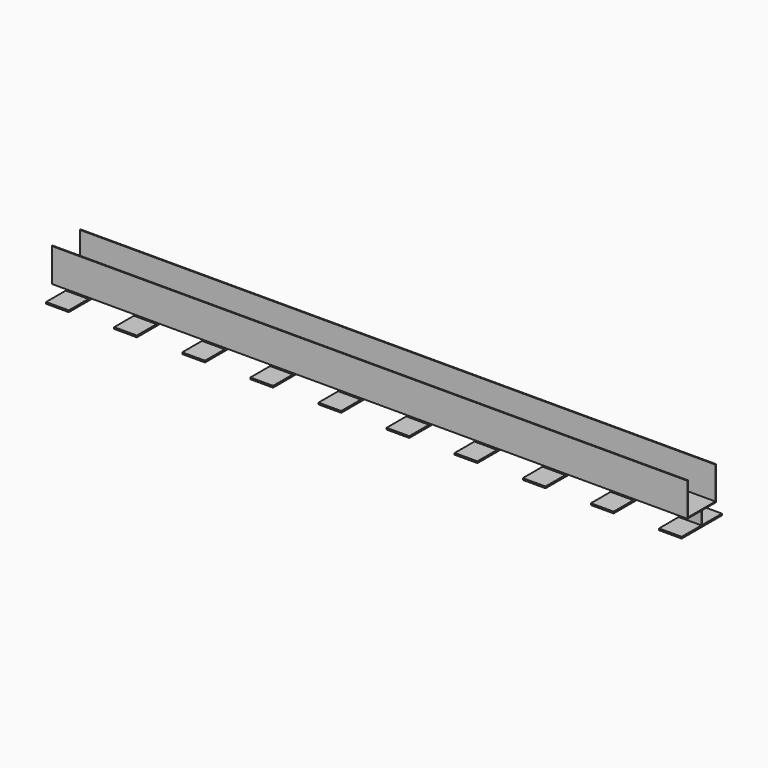
from build123d import *

# Parameters (mm, degrees)
F1_DEPTH = 3285
F2_W     = 140
F2_H     = 45
F3_DEPTH = 155


with BuildPart() as f1:
    # F0 (on Right) → F1 (new body)
    with BuildSketch(Plane.YZ):
        Polygon((108, 3), (3, 3), (3, 103), (0, 103), (0, 0), (54, 0), (54, -40), (-22, -40), (-22, -45), (133, -45), (133, -40), (57, -40), (57, 0), (111, 0), (111, 103), (108, 103), align=None)
    extrude(amount=F1_DEPTH)

    # F2 (on face) → F3 (cut, through all)
    with BuildSketch(Plane.XZ.offset(22)):
        with Locations((140, -22.5)):
            Rectangle(F2_W, F2_H)
        with Locations((350, -22.5)):
            Rectangle(F2_W, F2_H)
        with Locations((560, -22.5)):
            Rectangle(F2_W, F2_H)
        with Locations((770, -22.5)):
            Rectangle(F2_W, F2_H)
        with Locations((980, -22.5)):
            Rectangle(F2_W, F2_H)
        with Locations((1190, -22.5)):
            Rectangle(F2_W, F2_H)
        with Locations((1400, -22.5)):
            Rectangle(F2_W, F2_H)
        with Locations((1610, -22.5)):
            Rectangle(F2_W, F2_H)
        Polygon((1750, 0), (1750, -45), (1890, -45), (1890, -22.5), (1890, 0), align=None)
        Polygon((1960, 103), (1960, -22.5), (1960, -45), (3285, -45), (3285, 103), align=None)
    extrude(amount=-F3_DEPTH, mode=Mode.SUBTRACT)


solid = f1.part
